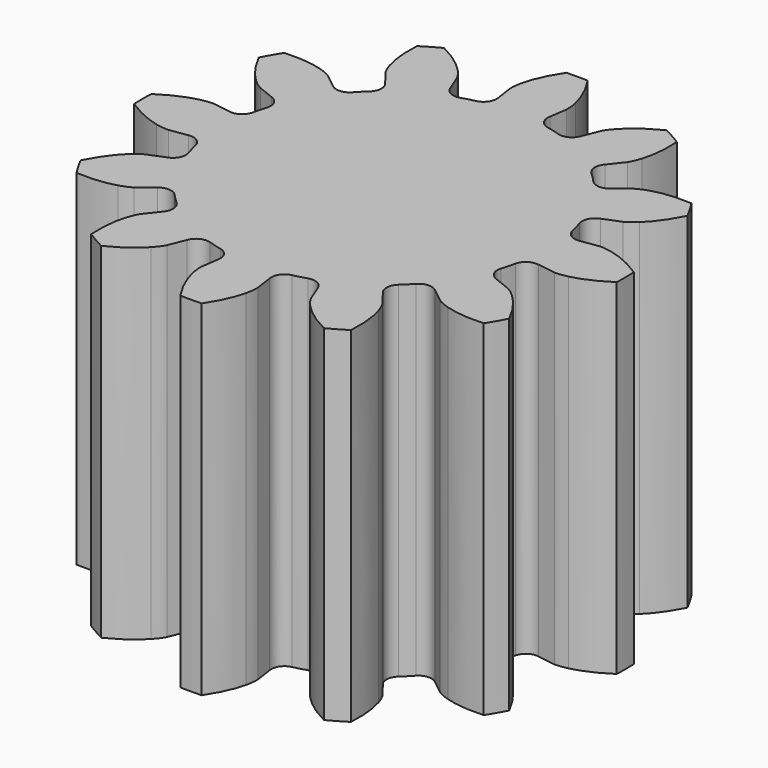
from build123d import *

# Parameters (mm, degrees)
PAD_DEPTH = 15


with BuildPart() as part:
    # InvoluteGear → Pad (new body)
    with BuildSketch(Plane.XY):
        with BuildLine():
            Line((7.613351, -1.117991), (8.391342, -1.230997))
            add(Edge.make_bspline(
                [(8.391342, -1.230997), (8.453372, -1.235413), (8.639606, -1.239539), (8.952693, -1.168255)],
                knots=[0, 0, 0, 0, 1, 1, 1, 1], degree=3))
            add(Edge.make_bspline(
                [(8.952693, -1.168255), (9.32537, -1.081215), (9.856035, -0.88794), (10.49177, -0.464635)],
                knots=[0, 0, 0, 0, 1, 1, 1, 1], degree=3))
            ThreePointArc((10.49177, -0.464635), (10.501028, 0.000466), (10.489675, 0.465521))
            add(Edge.make_bspline(
                [(10.489675, 0.465521), (9.856035, 0.88794), (9.32537, 1.081215), (8.952693, 1.168255)],
                knots=[0, 0, 0, 0, 1, 1, 1, 1], degree=3))
            add(Edge.make_bspline(
                [(8.952693, 1.168255), (8.639606, 1.239539), (8.453372, 1.235413), (8.391342, 1.230997)],
                knots=[0, 0, 0, 0, 1, 1, 1, 1], degree=3))
            Line((8.391342, 1.230997), (7.613351, 1.117991))
            ThreePointArc((7.613351, 1.117991), (7.195868, 1.202668), (6.953669, 1.5531))
            ThreePointArc((6.953669, 1.5531), (6.882222, 1.844086), (6.798604, 2.13181))
            ThreePointArc((6.798604, 2.13181), (6.833138, 2.556393), (7.152351, 2.838467))
            Line((7.152351, 2.838467), (7.882613, 3.129596))
            add(Edge.make_bspline(
                [(7.882613, 3.129596), (7.938542, 3.156787), (8.101888, 3.246331), (8.337387, 3.464608)],
                knots=[0, 0, 0, 0, 1, 1, 1, 1], degree=3))
            add(Edge.make_bspline(
                [(8.337387, 3.464608), (8.616615, 3.726326), (8.979547, 4.159039), (9.318457, 4.8435)],
                knots=[0, 0, 0, 0, 1, 1, 1, 1], degree=3))
            ThreePointArc((9.318457, 4.8435), (9.093924, 5.250918), (8.851565, 5.647991))
            add(Edge.make_bspline(
                [(8.851565, 5.647991), (8.091607, 5.696996), (7.5354, 5.599044), (7.169132, 5.488085)],
                knots=[0, 0, 0, 0, 1, 1, 1, 1], degree=3))
            add(Edge.make_bspline(
                [(7.169132, 5.488085), (6.862349, 5.393276), (6.703128, 5.296585), (6.651617, 5.261745)],
                knots=[0, 0, 0, 0, 1, 1, 1, 1], degree=3))
            Line((6.651617, 5.261745), (6.03436, 4.774885))
            ThreePointArc((6.03436, 4.774885), (5.63047, 4.639475), (5.245504, 4.821858))
            ThreePointArc((5.245504, 4.821858), (5.038136, 5.038136), (4.821858, 5.245504))
            ThreePointArc((4.821858, 5.245504), (4.639475, 5.63047), (4.774885, 6.03436))
            Line((4.774885, 6.03436), (5.261745, 6.651617))
            add(Edge.make_bspline(
                [(5.261745, 6.651617), (5.296585, 6.703128), (5.393276, 6.862349), (5.488085, 7.169132)],
                knots=[0, 0, 0, 0, 1, 1, 1, 1], degree=3))
            add(Edge.make_bspline(
                [(5.488085, 7.169132), (5.599044, 7.5354), (5.696996, 8.091607), (5.648271, 8.853822)],
                knots=[0, 0, 0, 0, 1, 1, 1, 1], degree=3))
            ThreePointArc((5.648271, 8.853822), (5.25011, 9.09439), (4.841685, 9.317086))
            add(Edge.make_bspline(
                [(4.841685, 9.317086), (4.159039, 8.979547), (3.726326, 8.616615), (3.464608, 8.337387)],
                knots=[0, 0, 0, 0, 1, 1, 1, 1], degree=3))
            add(Edge.make_bspline(
                [(3.464608, 8.337387), (3.246331, 8.101888), (3.156787, 7.938542), (3.129596, 7.882613)],
                knots=[0, 0, 0, 0, 1, 1, 1, 1], degree=3))
            Line((3.129596, 7.882613), (2.838467, 7.152351))
            ThreePointArc((2.838467, 7.152351), (2.556393, 6.833138), (2.13181, 6.798604))
            ThreePointArc((2.13181, 6.798604), (1.844086, 6.882222), (1.5531, 6.953669))
            ThreePointArc((1.5531, 6.953669), (1.202668, 7.195868), (1.117991, 7.613351))
            Line((1.117991, 7.613351), (1.230997, 8.391342))
            add(Edge.make_bspline(
                [(1.230997, 8.391342), (1.235413, 8.453372), (1.239539, 8.639606), (1.168255, 8.952693)],
                knots=[0, 0, 0, 0, 1, 1, 1, 1], degree=3))
            add(Edge.make_bspline(
                [(1.168255, 8.952693), (1.081215, 9.32537), (0.88794, 9.856035), (0.464635, 10.49177)],
                knots=[0, 0, 0, 0, 1, 1, 1, 1], degree=3))
            ThreePointArc((0.464635, 10.49177), (-0.000466, 10.501028), (-0.465521, 10.489675))
            add(Edge.make_bspline(
                [(-0.465521, 10.489675), (-0.88794, 9.856035), (-1.081215, 9.32537), (-1.168255, 8.952693)],
                knots=[0, 0, 0, 0, 1, 1, 1, 1], degree=3))
            add(Edge.make_bspline(
                [(-1.168255, 8.952693), (-1.239539, 8.639606), (-1.235413, 8.453372), (-1.230997, 8.391342)],
                knots=[0, 0, 0, 0, 1, 1, 1, 1], degree=3))
            Line((-1.230997, 8.391342), (-1.117991, 7.613351))
            ThreePointArc((-1.117991, 7.613351), (-1.202668, 7.195868), (-1.5531, 6.953669))
            ThreePointArc((-1.5531, 6.953669), (-1.844086, 6.882222), (-2.13181, 6.798604))
            ThreePointArc((-2.13181, 6.798604), (-2.556393, 6.833138), (-2.838467, 7.152351))
            Line((-2.838467, 7.152351), (-3.129596, 7.882613))
            add(Edge.make_bspline(
                [(-3.129596, 7.882613), (-3.156787, 7.938542), (-3.246331, 8.101888), (-3.464608, 8.337387)],
                knots=[0, 0, 0, 0, 1, 1, 1, 1], degree=3))
            add(Edge.make_bspline(
                [(-3.464608, 8.337387), (-3.726326, 8.616615), (-4.159039, 8.979547), (-4.8435, 9.318457)],
                knots=[0, 0, 0, 0, 1, 1, 1, 1], degree=3))
            ThreePointArc((-4.8435, 9.318457), (-5.250918, 9.093924), (-5.647991, 8.851565))
            add(Edge.make_bspline(
                [(-5.647991, 8.851565), (-5.696996, 8.091607), (-5.599044, 7.5354), (-5.488085, 7.169132)],
                knots=[0, 0, 0, 0, 1, 1, 1, 1], degree=3))
            add(Edge.make_bspline(
                [(-5.488085, 7.169132), (-5.393276, 6.862349), (-5.296585, 6.703128), (-5.261745, 6.651617)],
                knots=[0, 0, 0, 0, 1, 1, 1, 1], degree=3))
            Line((-5.261745, 6.651617), (-4.774885, 6.03436))
            ThreePointArc((-4.774885, 6.03436), (-4.639475, 5.63047), (-4.821858, 5.245504))
            ThreePointArc((-4.821858, 5.245504), (-5.038136, 5.038136), (-5.245504, 4.821858))
            ThreePointArc((-5.245504, 4.821858), (-5.63047, 4.639475), (-6.03436, 4.774885))
            Line((-6.03436, 4.774885), (-6.651617, 5.261745))
            add(Edge.make_bspline(
                [(-6.651617, 5.261745), (-6.703128, 5.296585), (-6.862349, 5.393276), (-7.169132, 5.488085)],
                knots=[0, 0, 0, 0, 1, 1, 1, 1], degree=3))
            add(Edge.make_bspline(
                [(-7.169132, 5.488085), (-7.5354, 5.599044), (-8.091607, 5.696996), (-8.853822, 5.648271)],
                knots=[0, 0, 0, 0, 1, 1, 1, 1], degree=3))
            ThreePointArc((-8.853822, 5.648271), (-9.09439, 5.25011), (-9.317086, 4.841685))
            add(Edge.make_bspline(
                [(-9.317086, 4.841685), (-8.979547, 4.159039), (-8.616615, 3.726326), (-8.337387, 3.464608)],
                knots=[0, 0, 0, 0, 1, 1, 1, 1], degree=3))
            add(Edge.make_bspline(
                [(-8.337387, 3.464608), (-8.101888, 3.246331), (-7.938542, 3.156787), (-7.882613, 3.129596)],
                knots=[0, 0, 0, 0, 1, 1, 1, 1], degree=3))
            Line((-7.882613, 3.129596), (-7.152351, 2.838467))
            ThreePointArc((-7.152351, 2.838467), (-6.833138, 2.556393), (-6.798604, 2.13181))
            ThreePointArc((-6.798604, 2.13181), (-6.882222, 1.844086), (-6.953669, 1.5531))
            ThreePointArc((-6.953669, 1.5531), (-7.195868, 1.202668), (-7.613351, 1.117991))
            Line((-7.613351, 1.117991), (-8.391342, 1.230997))
            add(Edge.make_bspline(
                [(-8.391342, 1.230997), (-8.453372, 1.235413), (-8.639606, 1.239539), (-8.952693, 1.168255)],
                knots=[0, 0, 0, 0, 1, 1, 1, 1], degree=3))
            add(Edge.make_bspline(
                [(-8.952693, 1.168255), (-9.32537, 1.081215), (-9.856035, 0.88794), (-10.49177, 0.464635)],
                knots=[0, 0, 0, 0, 1, 1, 1, 1], degree=3))
            ThreePointArc((-10.49177, 0.464635), (-10.501028, -0.000466), (-10.489675, -0.465521))
            add(Edge.make_bspline(
                [(-10.489675, -0.465521), (-9.856035, -0.88794), (-9.32537, -1.081215), (-8.952693, -1.168255)],
                knots=[0, 0, 0, 0, 1, 1, 1, 1], degree=3))
            add(Edge.make_bspline(
                [(-8.952693, -1.168255), (-8.639606, -1.239539), (-8.453372, -1.235413), (-8.391342, -1.230997)],
                knots=[0, 0, 0, 0, 1, 1, 1, 1], degree=3))
            Line((-8.391342, -1.230997), (-7.613351, -1.117991))
            ThreePointArc((-7.613351, -1.117991), (-7.195868, -1.202668), (-6.953669, -1.5531))
            ThreePointArc((-6.953669, -1.5531), (-6.882222, -1.844086), (-6.798604, -2.13181))
            ThreePointArc((-6.798604, -2.13181), (-6.833138, -2.556393), (-7.152351, -2.838467))
            Line((-7.152351, -2.838467), (-7.882613, -3.129596))
            add(Edge.make_bspline(
                [(-7.882613, -3.129596), (-7.938542, -3.156787), (-8.101888, -3.246331), (-8.337387, -3.464608)],
                knots=[0, 0, 0, 0, 1, 1, 1, 1], degree=3))
            add(Edge.make_bspline(
                [(-8.337387, -3.464608), (-8.616615, -3.726326), (-8.979547, -4.159039), (-9.318457, -4.8435)],
                knots=[0, 0, 0, 0, 1, 1, 1, 1], degree=3))
            ThreePointArc((-9.318457, -4.8435), (-9.093924, -5.250918), (-8.851565, -5.647991))
            add(Edge.make_bspline(
                [(-8.851565, -5.647991), (-8.091607, -5.696996), (-7.5354, -5.599044), (-7.169132, -5.488085)],
                knots=[0, 0, 0, 0, 1, 1, 1, 1], degree=3))
            add(Edge.make_bspline(
                [(-7.169132, -5.488085), (-6.862349, -5.393276), (-6.703128, -5.296585), (-6.651617, -5.261745)],
                knots=[0, 0, 0, 0, 1, 1, 1, 1], degree=3))
            Line((-6.651617, -5.261745), (-6.03436, -4.774885))
            ThreePointArc((-6.03436, -4.774885), (-5.63047, -4.639475), (-5.245504, -4.821858))
            ThreePointArc((-5.245504, -4.821858), (-5.038136, -5.038136), (-4.821858, -5.245504))
            ThreePointArc((-4.821858, -5.245504), (-4.639475, -5.63047), (-4.774885, -6.03436))
            Line((-4.774885, -6.03436), (-5.261745, -6.651617))
            add(Edge.make_bspline(
                [(-5.261745, -6.651617), (-5.296585, -6.703128), (-5.393276, -6.862349), (-5.488085, -7.169132)],
                knots=[0, 0, 0, 0, 1, 1, 1, 1], degree=3))
            add(Edge.make_bspline(
                [(-5.488085, -7.169132), (-5.599044, -7.5354), (-5.696996, -8.091607), (-5.648271, -8.853822)],
                knots=[0, 0, 0, 0, 1, 1, 1, 1], degree=3))
            ThreePointArc((-5.648271, -8.853822), (-5.25011, -9.09439), (-4.841685, -9.317086))
            add(Edge.make_bspline(
                [(-4.841685, -9.317086), (-4.159039, -8.979547), (-3.726326, -8.616615), (-3.464608, -8.337387)],
                knots=[0, 0, 0, 0, 1, 1, 1, 1], degree=3))
            add(Edge.make_bspline(
                [(-3.464608, -8.337387), (-3.246331, -8.101888), (-3.156787, -7.938542), (-3.129596, -7.882613)],
                knots=[0, 0, 0, 0, 1, 1, 1, 1], degree=3))
            Line((-3.129596, -7.882613), (-2.838467, -7.152351))
            ThreePointArc((-2.838467, -7.152351), (-2.556393, -6.833138), (-2.13181, -6.798604))
            ThreePointArc((-2.13181, -6.798604), (-1.844086, -6.882222), (-1.5531, -6.953669))
            ThreePointArc((-1.5531, -6.953669), (-1.202668, -7.195868), (-1.117991, -7.613351))
            Line((-1.117991, -7.613351), (-1.230997, -8.391342))
            add(Edge.make_bspline(
                [(-1.230997, -8.391342), (-1.235413, -8.453372), (-1.239539, -8.639606), (-1.168255, -8.952693)],
                knots=[0, 0, 0, 0, 1, 1, 1, 1], degree=3))
            add(Edge.make_bspline(
                [(-1.168255, -8.952693), (-1.081215, -9.32537), (-0.88794, -9.856035), (-0.464635, -10.49177)],
                knots=[0, 0, 0, 0, 1, 1, 1, 1], degree=3))
            ThreePointArc((-0.464635, -10.49177), (0.000466, -10.501028), (0.465521, -10.489675))
            add(Edge.make_bspline(
                [(0.465521, -10.489675), (0.88794, -9.856035), (1.081215, -9.32537), (1.168255, -8.952693)],
                knots=[0, 0, 0, 0, 1, 1, 1, 1], degree=3))
            add(Edge.make_bspline(
                [(1.168255, -8.952693), (1.239539, -8.639606), (1.235413, -8.453372), (1.230997, -8.391342)],
                knots=[0, 0, 0, 0, 1, 1, 1, 1], degree=3))
            Line((1.230997, -8.391342), (1.117991, -7.613351))
            ThreePointArc((1.117991, -7.613351), (1.202668, -7.195868), (1.5531, -6.953669))
            ThreePointArc((1.5531, -6.953669), (1.844086, -6.882222), (2.13181, -6.798604))
            ThreePointArc((2.13181, -6.798604), (2.556393, -6.833138), (2.838467, -7.152351))
            Line((2.838467, -7.152351), (3.129596, -7.882613))
            add(Edge.make_bspline(
                [(3.129596, -7.882613), (3.156787, -7.938542), (3.246331, -8.101888), (3.464608, -8.337387)],
                knots=[0, 0, 0, 0, 1, 1, 1, 1], degree=3))
            add(Edge.make_bspline(
                [(3.464608, -8.337387), (3.726326, -8.616615), (4.159039, -8.979547), (4.8435, -9.318457)],
                knots=[0, 0, 0, 0, 1, 1, 1, 1], degree=3))
            ThreePointArc((4.8435, -9.318457), (5.250918, -9.093924), (5.647991, -8.851565))
            add(Edge.make_bspline(
                [(5.647991, -8.851565), (5.696996, -8.091607), (5.599044, -7.5354), (5.488085, -7.169132)],
                knots=[0, 0, 0, 0, 1, 1, 1, 1], degree=3))
            add(Edge.make_bspline(
                [(5.488085, -7.169132), (5.393276, -6.862349), (5.296585, -6.703128), (5.261745, -6.651617)],
                knots=[0, 0, 0, 0, 1, 1, 1, 1], degree=3))
            Line((5.261745, -6.651617), (4.774885, -6.03436))
            ThreePointArc((4.774885, -6.03436), (4.639475, -5.63047), (4.821858, -5.245504))
            ThreePointArc((4.821858, -5.245504), (5.038136, -5.038136), (5.245504, -4.821858))
            ThreePointArc((5.245504, -4.821858), (5.63047, -4.639475), (6.03436, -4.774885))
            Line((6.03436, -4.774885), (6.651617, -5.261745))
            add(Edge.make_bspline(
                [(6.651617, -5.261745), (6.703128, -5.296585), (6.862349, -5.393276), (7.169132, -5.488085)],
                knots=[0, 0, 0, 0, 1, 1, 1, 1], degree=3))
            add(Edge.make_bspline(
                [(7.169132, -5.488085), (7.5354, -5.599044), (8.091607, -5.696996), (8.853822, -5.648271)],
                knots=[0, 0, 0, 0, 1, 1, 1, 1], degree=3))
            ThreePointArc((8.853822, -5.648271), (9.09439, -5.25011), (9.317086, -4.841685))
            add(Edge.make_bspline(
                [(9.317086, -4.841685), (8.979547, -4.159039), (8.616615, -3.726326), (8.337387, -3.464608)],
                knots=[0, 0, 0, 0, 1, 1, 1, 1], degree=3))
            add(Edge.make_bspline(
                [(8.337387, -3.464608), (8.101888, -3.246331), (7.938542, -3.156787), (7.882613, -3.129596)],
                knots=[0, 0, 0, 0, 1, 1, 1, 1], degree=3))
            Line((7.882613, -3.129596), (7.152351, -2.838467))
            ThreePointArc((7.152351, -2.838467), (6.833138, -2.556393), (6.798604, -2.13181))
            ThreePointArc((6.798604, -2.13181), (6.882222, -1.844086), (6.953669, -1.5531))
            ThreePointArc((6.953669, -1.5531), (7.195868, -1.202668), (7.613351, -1.117991))
        make_face()
    extrude(amount=PAD_DEPTH)


solid = part.part
